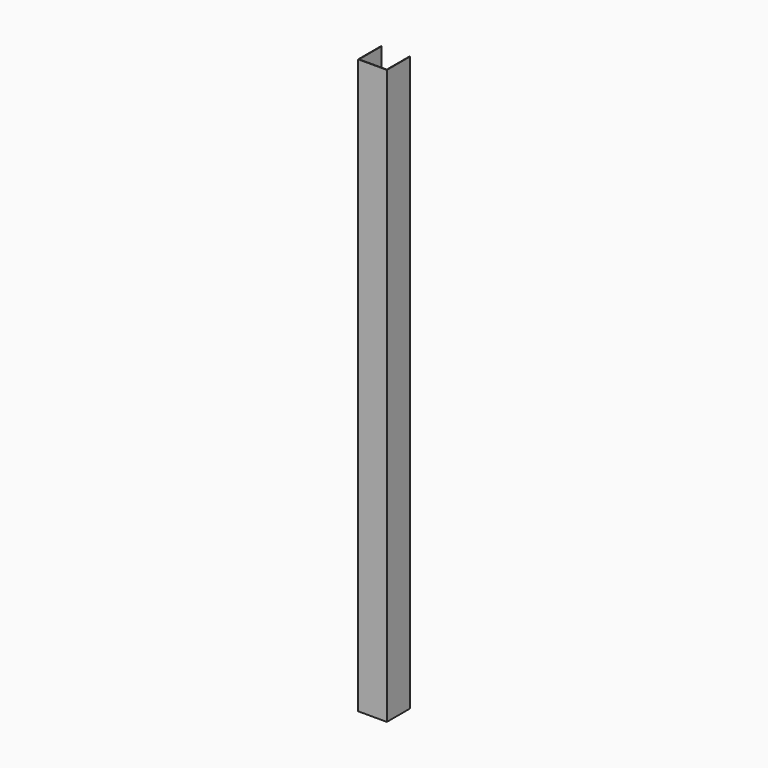
from build123d import *

# Parameters (mm, degrees)
F0_W     = 0.5
F0_H     = 29.5
F0_W_2   = 29
F0_H_2   = 0.5
F1_DEPTH = 600


with BuildPart() as f1:
    # F0 (on Top) → F1 (new body)
    with BuildSketch(Plane.XY):
        with Locations((1.0650282837, -3.191780895)):
            Rectangle(F0_W, F0_H)
        with Locations((15.8150282837, -18.191780895)):
            Rectangle(F0_W_2, F0_H_2)
        with Locations((30.5650282837, -3.191780895)):
            Rectangle(F0_W, F0_H)
        with Locations((30.5650282837, -18.191780895)):
            Rectangle(F0_W, F0_H_2)
        with Locations((1.0650282837, -18.191780895)):
            Rectangle(F0_W, F0_H_2)
    extrude(amount=F1_DEPTH)


solid = f1.part
